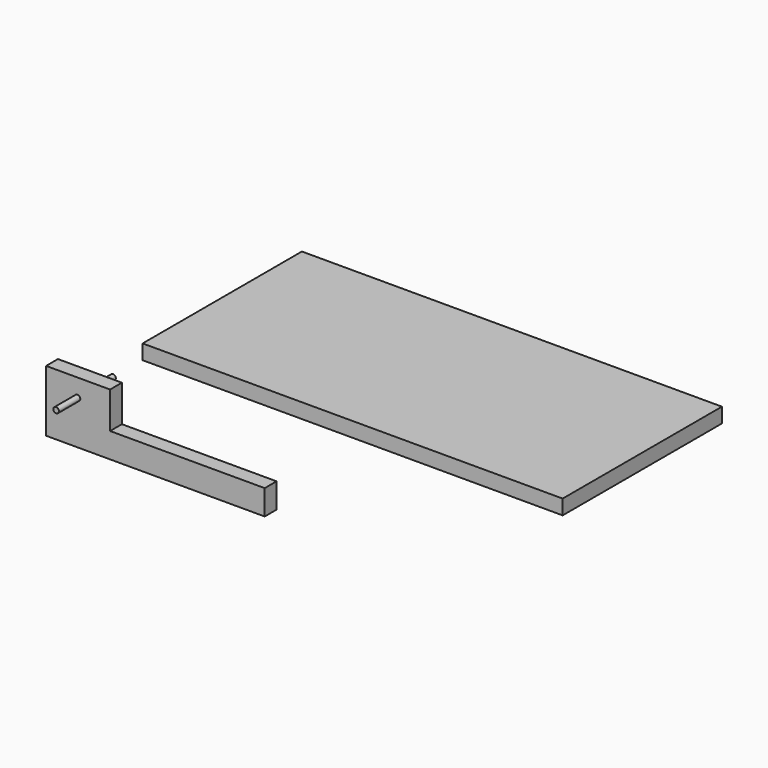
from build123d import *

# Parameters (mm, degrees)
F0_W          = 109.727997
F0_H          = 76.417719
F1_DEPTH      = 25.4
F2_R          = 4.79425
F3_DEPTH      = 45.87494
F3_DEPTH_BACK = 76.2
F4_W          = 374.894309
F4_H          = 42.816885
F5_DEPTH      = 25.4
F6_W          = 720.201612
F6_H          = 341.352016
F7_DEPTH      = 25.4


with BuildPart() as f1:
    # F0 (on Front) → F1 (new body)
    with BuildSketch(Plane.XZ):
        with Locations((0.979713, -7.511144)):
            Rectangle(F0_W, F0_H)
    extrude(amount=F1_DEPTH)

    # F2 (on face) → F3 (join, two sides)
    with BuildSketch(Plane.XZ.offset(25.4)) as f3_sk:
        Circle(F2_R)
    extrude(amount=F3_DEPTH)
    extrude(f3_sk.sketch, amount=-F3_DEPTH_BACK)

    # F4 (on face) → F5 (join)
    with BuildSketch(Plane.XZ.offset(25.4)):
        with Locations((133.562869, -53.347919)):
            Rectangle(F4_W, F4_H)
    extrude(amount=-F5_DEPTH)


with BuildPart() as f7:
    # F6 (on Top) → F7 (new body)
    with BuildSketch(Plane.XY):
        with Locations((360.100806, 284.859076)):
            Rectangle(F6_W, F6_H)
    extrude(amount=F7_DEPTH)


solid = Compound([f1.part, f7.part])
